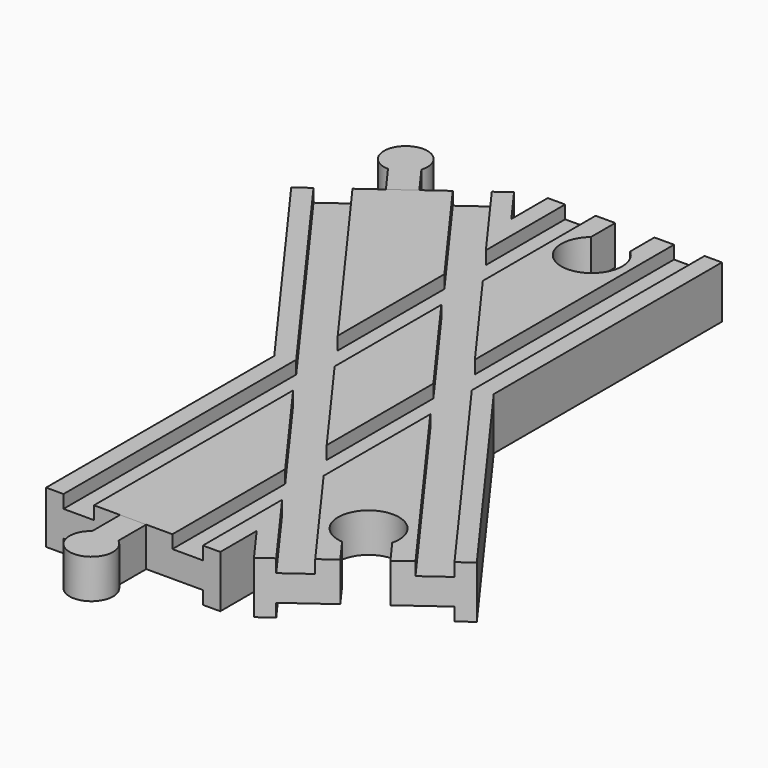
from build123d import *

# Parameters (mm, degrees)
SKETCH004_W             = 32
SKETCH004_H             = 3
SKETCH005_W             = 32
SKETCH005_H             = 3
SKETCH006_W             = 7
SKETCH006_H             = 3
SKETCH007_W             = 7
SKETCH007_H             = 3
SKETCH008_W             = 7
SKETCH008_H             = 3
SKETCH009_W             = 7
SKETCH009_H             = 3
POCKET_DEPTH            = 6.001
POCKET_DEPTH_BACK       = 6.001
POCKET001_DEPTH         = 6.001
POCKET001_DEPTH_BACK    = 6.001
PAD_DEPTH               = 6
PAD_DEPTH_BACK          = 3
PAD001_DEPTH            = 6
PAD001_DEPTH_BACK       = 3
BODY002_PLACEMENT_ANGLE = 180


with BuildPart() as body:
    # AdditivePipe: sweep along a path in Sketch
    with BuildLine(Plane.XY) as additivepipe_path:
        Line((0, -72), (0, 72))
    # Sketch002 (on DatumPlane) → AdditivePipe (sweep)
    with BuildSketch(Plane.XZ.offset(72)):
        Polygon((-20, 6), (-20, -6), (-16, -6), (-16, -3), (-9, -3), (9, -3), (16, -3), (16, -6), (20, -6), (20, 6), (16, 6), (16, 3), (9, 3), (9, 6), (-9, 6), (-9, 3), (-16, 3), (-16, 6), align=None)
    sweep(path=additivepipe_path.line)

    # AdditivePipe001: sweep along a path in Sketch001
    with BuildLine(Plane.XY) as additivepipe001_path:
        Line((-42.3205381651, 58.249223595), (42.3205381651, -58.249223595))
    # Sketch003 (on DatumPlane) → AdditivePipe001 (sweep)
    with BuildSketch(Plane(origin=(-42.3205381651, 58.249223595, 0), x_dir=(-0.8090169944, -0.5877852523, 0), z_dir=(-0.5877852523, 0.8090169944, 0))):
        Polygon((-20, 6), (-20, -6), (-16, -6), (-16, -3), (-9, -3), (9, -3), (16, -3), (16, -6), (20, -6), (20, 6), (16, 6), (16, 3), (9, 3), (9, 6), (-9, 6), (-9, 3), (-16, 3), (-16, 6), align=None)
    sweep(path=additivepipe001_path.line)

    # SubtractivePipe: sweep along a path in Sketch
    with BuildLine(Plane.XY) as subtractivepipe_path:
        Line((0, -72), (0, 72))
    # Sketch004 (on DatumPlane) → SubtractivePipe (sweep, cut)
    with BuildSketch(Plane.XZ.offset(72)):
        with Locations((0, -4.5)):
            Rectangle(SKETCH004_W, SKETCH004_H)
    sweep(path=subtractivepipe_path.line, mode=Mode.SUBTRACT)

    # SubtractivePipe001: sweep along a path in Sketch001
    with BuildLine(Plane.XY) as subtractivepipe001_path:
        Line((-42.3205381651, 58.249223595), (42.3205381651, -58.249223595))
    # Sketch005 (on DatumPlane) → SubtractivePipe001 (sweep, cut)
    with BuildSketch(Plane(origin=(-42.3205381651, 58.249223595, 0), x_dir=(-0.8090169944, -0.5877852523, 0), z_dir=(-0.5877852523, 0.8090169944, 0))):
        with Locations((0, -4.5)):
            Rectangle(SKETCH005_W, SKETCH005_H)
    sweep(path=subtractivepipe001_path.line, mode=Mode.SUBTRACT)

    # SubtractivePipe002: sweep along a path in Sketch
    with BuildLine(Plane.XY) as subtractivepipe002_path:
        Line((0, -72), (0, 72))
    # Sketch006 (on DatumPlane) → SubtractivePipe002 (sweep, cut)
    with BuildSketch(Plane.XZ.offset(72)):
        with Locations((-12.5, 4.5)):
            Rectangle(SKETCH006_W, SKETCH006_H)
    sweep(path=subtractivepipe002_path.line, mode=Mode.SUBTRACT)

    # SubtractivePipe003: sweep along a path in Sketch
    with BuildLine(Plane.XY) as subtractivepipe003_path:
        Line((0, -72), (0, 72))
    # Sketch007 (on DatumPlane) → SubtractivePipe003 (sweep, cut)
    with BuildSketch(Plane.XZ.offset(72)):
        with Locations((12.5, 4.5)):
            Rectangle(SKETCH007_W, SKETCH007_H)
    sweep(path=subtractivepipe003_path.line, mode=Mode.SUBTRACT)

    # SubtractivePipe004: sweep along a path in Sketch001
    with BuildLine(Plane.XY) as subtractivepipe004_path:
        Line((-42.3205381651, 58.249223595), (42.3205381651, -58.249223595))
    # Sketch008 (on DatumPlane) → SubtractivePipe004 (sweep, cut)
    with BuildSketch(Plane(origin=(-42.3205381651, 58.249223595, 0), x_dir=(-0.8090169944, -0.5877852523, 0), z_dir=(-0.5877852523, 0.8090169944, 0))):
        with Locations((-12.5, 4.5)):
            Rectangle(SKETCH008_W, SKETCH008_H)
    sweep(path=subtractivepipe004_path.line, mode=Mode.SUBTRACT)

    # SubtractivePipe005: sweep along a path in Sketch001
    with BuildLine(Plane.XY) as subtractivepipe005_path:
        Line((-42.3205381651, 58.249223595), (42.3205381651, -58.249223595))
    # Sketch009 (on DatumPlane) → SubtractivePipe005 (sweep, cut)
    with BuildSketch(Plane(origin=(-42.3205381651, 58.249223595, 0), x_dir=(-0.8090169944, -0.5877852523, 0), z_dir=(-0.5877852523, 0.8090169944, 0))):
        with Locations((12.5, 4.5)):
            Rectangle(SKETCH009_W, SKETCH009_H)
    sweep(path=subtractivepipe005_path.line, mode=Mode.SUBTRACT)

    # Sketch010 → Pocket (cut, two sides)
    with BuildSketch(Plane.XY) as pocket_sk:
        with BuildLine():
            Line((-4.5, 72), (4.5, 72))
            Line((4.5, 72), (4.5, 65))
            ThreePointArc((-4.5, 65), (0, 52.6380973526), (4.5, 65))
            Line((-4.5, 72), (-4.5, 65))
        make_face()
    extrude(amount=-POCKET_DEPTH, mode=Mode.SUBTRACT)
    extrude(pocket_sk.sketch, amount=POCKET_DEPTH_BACK, mode=Mode.SUBTRACT)

    # Sketch011 → Pocket001 (cut, two sides)
    with BuildSketch(Plane.XY) as pocket001_sk:
        with BuildLine():
            Line((38.6799616904, -60.8942572303), (34.5654649243, -55.2311382697))
            ThreePointArc((41.8466178737, -49.9410709991), (30.9398973326, -42.5851153098), (34.5654649243, -55.2311382697))
            Line((45.9611146397, -55.6041899597), (41.8466178737, -49.9410709991))
            Line((38.6799616904, -60.8942572303), (45.9611146397, -55.6041899597))
        make_face()
    extrude(amount=-POCKET001_DEPTH, mode=Mode.SUBTRACT)
    extrude(pocket001_sk.sketch, amount=POCKET001_DEPTH_BACK, mode=Mode.SUBTRACT)


with BuildPart() as body001:
    # Sketch012 → Pad (new body, two sides)
    with BuildSketch(Plane.XY) as pad_sk:
        with BuildLine():
            Line((-3, -72), (3, -72))
            Line((3, -72), (3, -80))
            ThreePointArc((-3, -80), (0, -89), (3, -80))
            Line((-3, -72), (-3, -80))
        make_face()
    extrude(amount=PAD_DEPTH)
    extrude(pad_sk.sketch, amount=-PAD_DEPTH_BACK)


with BuildPart() as body002:
    # Sketch013 → Pad001 (new body, two sides)
    with BuildSketch(Plane.XY) as pad001_sk:
        with BuildLine():
            Line((39.8934871819, -60.0125793519), (44.7475891482, -56.4858678381))
            Line((44.7475891482, -56.4858678381), (49.4498711665, -62.9580037931))
            ThreePointArc((44.5957692003, -66.4847153069), (52.312887454, -72.0025124994), (49.4498711665, -62.9580037931))
            Line((39.8934871819, -60.0125793519), (44.5957692003, -66.4847153069))
        make_face()
    extrude(amount=PAD001_DEPTH)
    extrude(pad001_sk.sketch, amount=-PAD001_DEPTH_BACK)


with BuildPart() as body002_1:
    # Body002 placement: moved
    add(body002.part.rotate(Axis((0, 0, 0), (0, 0, 1)), BODY002_PLACEMENT_ANGLE))


solid = Compound([body.part, body001.part, body002_1.part])
